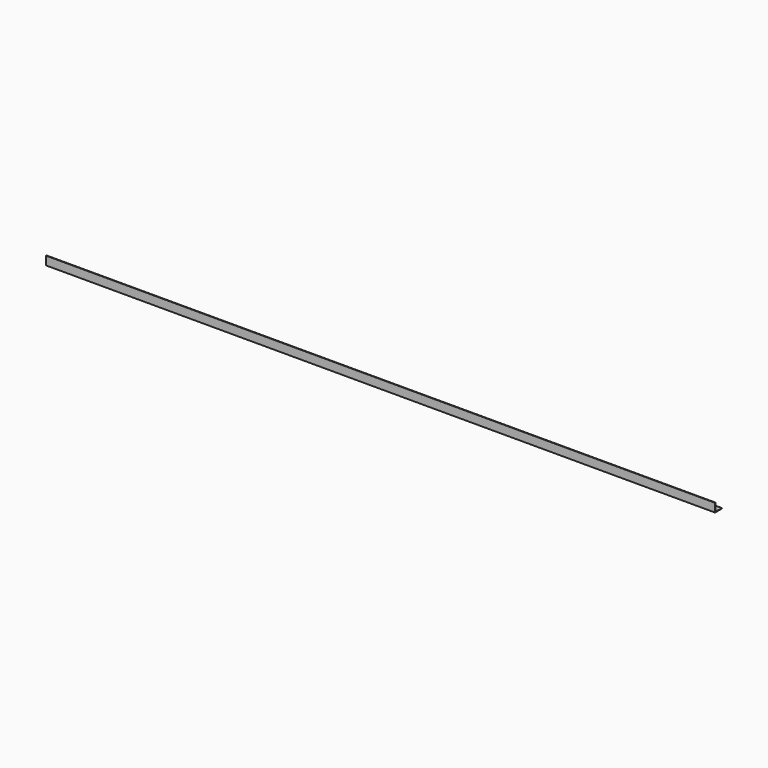
from build123d import *

# Parameters (mm, degrees)
PAD_DEPTH = 1943.5


with BuildPart() as part:
    # Sketch → Pad (new body, symmetric)
    with BuildSketch(Plane.YZ):
        Polygon((-805, 50), (-805, 0), (-755, 0), (-755, 3), (-802, 3), (-802, 50), align=None)
    extrude(amount=PAD_DEPTH, both=True)


solid = part.part
